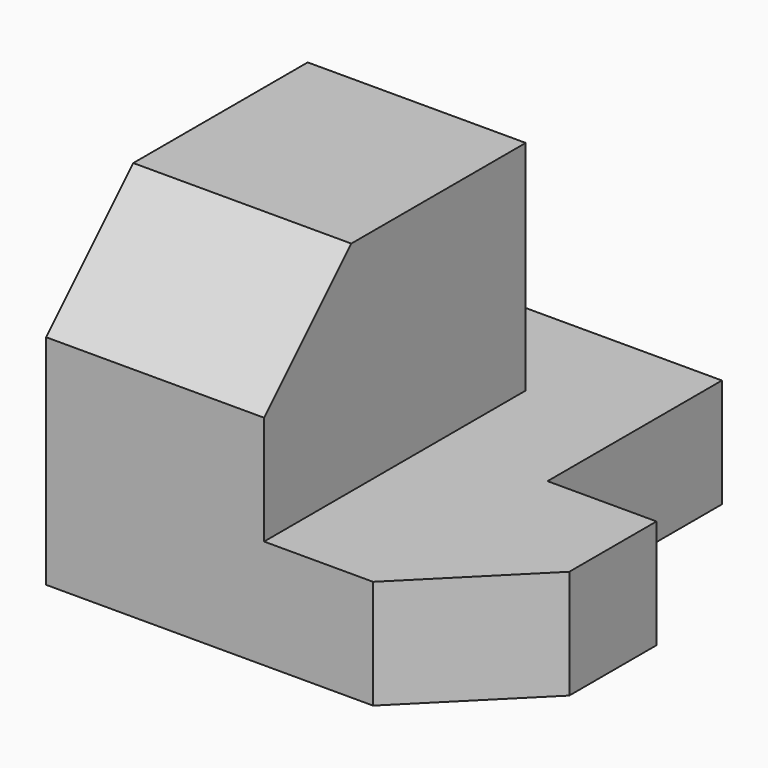
from build123d import *

# Parameters (mm, degrees)
F1_DEPTH = 40
F2_W     = 10
F2_H     = 20
F3_DEPTH = 20
F4_W     = 10
F4_H     = 20
F5_DEPTH = 10
F7_DEPTH = 10
F9_DEPTH = 20


with BuildPart() as f1:
    # F0 (on Front) → F1 (new body)
    with BuildSketch(Plane.XZ):
        Polygon((0, 30), (0, 0), (40, 0), (40, 10), (20, 10), (20, 30), align=None)
    extrude(amount=F1_DEPTH)

    # F2 (on face) → F3 (cut)
    with BuildSketch(Plane.YZ.offset(20)):
        with Locations((-5, 20)):
            Rectangle(F2_W, F2_H)
    extrude(amount=-F3_DEPTH, mode=Mode.SUBTRACT)

    # F4 (on face) → F5 (cut)
    with BuildSketch(Plane.XY.offset(10)):
        with Locations((35, -10)):
            Rectangle(F4_W, F4_H)
    extrude(amount=-F5_DEPTH, mode=Mode.SUBTRACT)

    # F6 (on face) → F7 (cut)
    with BuildSketch(Plane.XY.offset(10)):
        Polygon((40, -30), (30, -40), (40, -40), align=None)
    extrude(amount=-F7_DEPTH, mode=Mode.SUBTRACT)

    # F8 (on face) → F9 (cut)
    with BuildSketch(Plane.YZ.offset(20)):
        Polygon((-40, 30), (-40, 20), (-30, 30), align=None)
    extrude(amount=-F9_DEPTH, mode=Mode.SUBTRACT)


solid = f1.part
